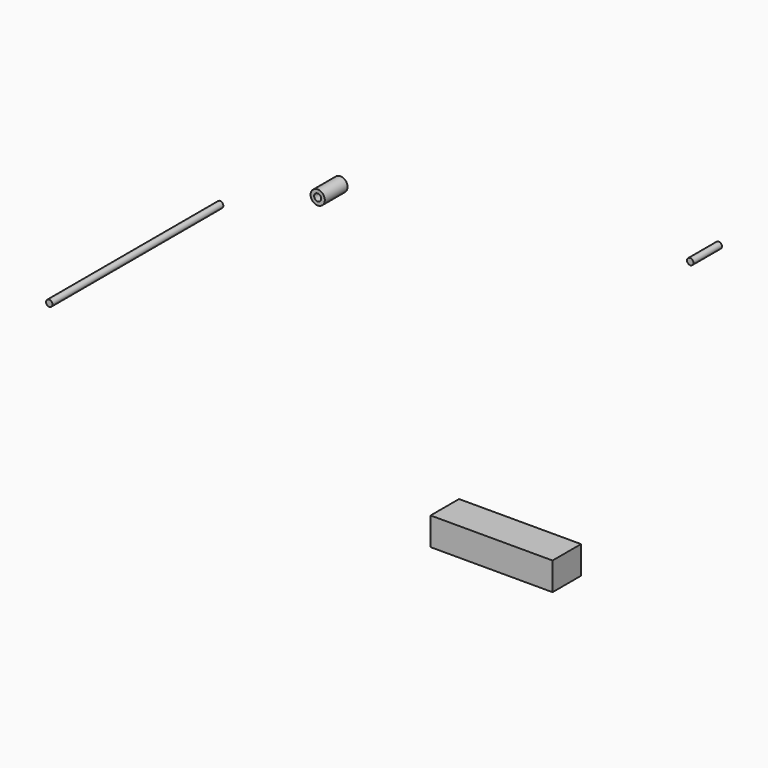
from build123d import *

# Parameters (mm, degrees)
F0_R     = 1.27
F1_DEPTH = 5.08
F2_D     = 1.27
F3_W     = 21.75764
F3_H     = 4.9772378749
F4_DEPTH = 6.35
F5_R     = 0.5715
F6_DEPTH = 38.1
F7_R     = 0.5715
F8_DEPTH = 6.35


with BuildPart() as f1:
    # F0 (on Front) → F1 (new body)
    with BuildSketch(Plane.XZ):
        with Locations((-41.1656871438, 24.2970418185)):
            Circle(F0_R)
    extrude(amount=F1_DEPTH)

    # F2 (through all)
    with Locations(Plane(origin=(0, 0, 0), x_dir=(1, 0, 0), z_dir=(0, 1, 0))):
        with Locations((-41.1656871438, -24.2970418185)):
            Hole(F2_D / 2)


with BuildPart() as f4:
    # F3 (on Front) → F4 (new body)
    with BuildSketch(Plane.XZ):
        with Locations((-9.1307358816, -20.7376023754)):
            Rectangle(F3_W, F3_H)
    extrude(amount=F4_DEPTH)


with BuildPart() as f6:
    # F5 (on Front) → F6 (new body)
    with BuildSketch(Plane.XZ):
        with Locations((-62.6288205385, 14.1314091161)):
            Circle(F5_R)
    extrude(amount=F6_DEPTH)


with BuildPart() as f8:
    # F7 (on Front) → F8 (new body)
    with BuildSketch(Plane.XZ):
        with Locations((26.3088960201, 36.6776995361)):
            Circle(F7_R)
    extrude(amount=F8_DEPTH)


solid = Compound([f1.part, f4.part, f6.part, f8.part])
